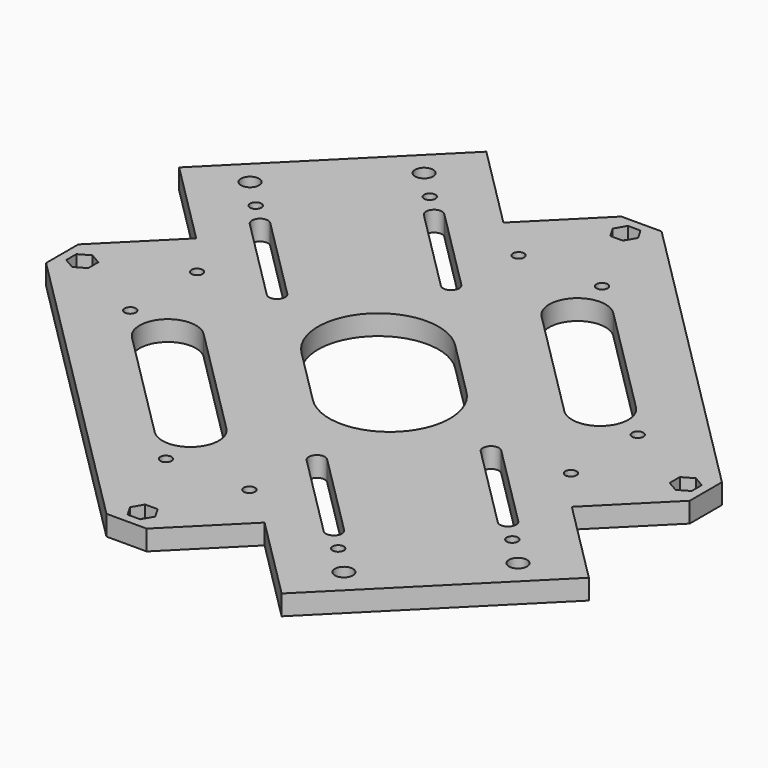
from build123d import *

# Parameters (mm, degrees)
EXTRUDE002_DEPTH           = 4
EXTRUDE002_PLACEMENT_ANGLE = 180
EXTRUDE003_DEPTH           = 4
EXTRUDE003_PLACEMENT_ANGLE = 90
EXTRUDE004_DEPTH           = 4
EXTRUDE004_PLACEMENT_ANGLE = -90
EXTRUDE001_DEPTH           = 4
SKETCH_R                   = 1.75
SKETCH_R_2                 = 1.4
SKETCH_R_3                 = 2.25
EXTRUDE_DEPTH              = 5


with BuildPart() as extrude002:
    # Sketch001 → Extrude002 (new body)
    with BuildSketch(Plane.XY):
        Polygon((1.575, -7.72798), (3.15, -5), (1.575, -2.27202), (-1.575, -2.27202), (-3.15, -5), (-1.575, -7.72798), align=None)
    extrude(amount=EXTRUDE002_DEPTH)


with BuildPart() as extrude002_1:
    # Extrude002 placement: moved
    add(extrude002.part.moved(Location((0, -80, 2))).rotate(Axis((0, -80, 2), (0, 0, 1)), EXTRUDE002_PLACEMENT_ANGLE))


with BuildPart() as extrude003:
    # Sketch001 → Extrude003 (new body)
    with BuildSketch(Plane.XY):
        Polygon((1.575, -7.72798), (3.15, -5), (1.575, -2.27202), (-1.575, -2.27202), (-3.15, -5), (-1.575, -7.72798), align=None)
    extrude(amount=EXTRUDE003_DEPTH)


with BuildPart() as extrude003_1:
    # Extrude003 placement: moved
    add(extrude003.part.moved(Location((-80, 0, 2))).rotate(Axis((-80, 0, 2), (0, 0, 1)), EXTRUDE003_PLACEMENT_ANGLE))


with BuildPart() as extrude004:
    # Sketch001 → Extrude004 (new body)
    with BuildSketch(Plane.XY):
        Polygon((1.575, -7.72798), (3.15, -5), (1.575, -2.27202), (-1.575, -2.27202), (-3.15, -5), (-1.575, -7.72798), align=None)
    extrude(amount=EXTRUDE004_DEPTH)


with BuildPart() as extrude004_1:
    # Extrude004 placement: moved
    add(extrude004.part.moved(Location((80, 0, 2))).rotate(Axis((80, 0, 2), (0, 0, 1)), EXTRUDE004_PLACEMENT_ANGLE))


with BuildPart() as fusionhexnuts:
    # Sketch001 → Extrude001 (new body)
    with BuildSketch(Plane.XY):
        Polygon((1.575, -7.72798), (3.15, -5), (1.575, -2.27202), (-1.575, -2.27202), (-3.15, -5), (-1.575, -7.72798), align=None)
    extrude(amount=EXTRUDE001_DEPTH)


with BuildPart() as fusionhexnuts_1:
    # Extrude001 placement: moved
    add(fusionhexnuts.part.moved(Location((0, 80, 2))))

    # Fusion: union Extrude002, Extrude003, Extrude004
    add(extrude002_1.part)
    add(extrude003_1.part)
    add(extrude004_1.part)


with BuildPart() as cut:
    # Sketch → Extrude (new body)
    with BuildSketch(Plane.XY):
        Polygon((-5, 80), (5, 80), (80, 5), (80, -5), (63.713203, -21.286797), (84.926407, -42.5), (42.5, -84.926407), (21.286797, -63.713203), (5, -80), (-5, -80), (-80, -5), (-80, 5), (-63.713203, 21.286797), (-84.926407, 42.5), (-42.5, 84.926407), (-21.286797, 63.713203), align=None)
        with Locations((0, 75)):
            Circle(SKETCH_R, mode=Mode.SUBTRACT)
        with Locations((-75, 0)):
            Circle(SKETCH_R, mode=Mode.SUBTRACT)
        with Locations((75, 0)):
            Circle(SKETCH_R, mode=Mode.SUBTRACT)
        with Locations((0, -75)):
            Circle(SKETCH_R, mode=Mode.SUBTRACT)
        with Locations((-54.776107, 10.375)):
            Circle(SKETCH_R_2, mode=Mode.SUBTRACT)
        with Locations((-54.776107, -10.375)):
            Circle(SKETCH_R_2, mode=Mode.SUBTRACT)
        with Locations((-10.375, 54.776107)):
            Circle(SKETCH_R_2, mode=Mode.SUBTRACT)
        with Locations((10.375, 54.776107)):
            Circle(SKETCH_R_2, mode=Mode.SUBTRACT)
        with Locations((54.776107, 10.375)):
            Circle(SKETCH_R_2, mode=Mode.SUBTRACT)
        with Locations((54.776107, -10.375)):
            Circle(SKETCH_R_2, mode=Mode.SUBTRACT)
        with Locations((-10.375, -54.776107)):
            Circle(SKETCH_R_2, mode=Mode.SUBTRACT)
        with Locations((10.375, -54.776107)):
            Circle(SKETCH_R_2, mode=Mode.SUBTRACT)
        with Locations((39.244426, -63.286057)):
            Circle(SKETCH_R_2, mode=Mode.SUBTRACT)
        with Locations((63.286057, -39.244426)):
            Circle(SKETCH_R_2, mode=Mode.SUBTRACT)
        with Locations((-63.286057, 39.244426)):
            Circle(SKETCH_R_2, mode=Mode.SUBTRACT)
        with Locations((-39.244426, 63.286057)):
            Circle(SKETCH_R_2, mode=Mode.SUBTRACT)
        with Locations((-70.357125, 46.315494)):
            Circle(SKETCH_R_3, mode=Mode.SUBTRACT)
        with Locations((-46.315494, 70.357125)):
            Circle(SKETCH_R_3, mode=Mode.SUBTRACT)
        with Locations((46.315494, -70.357125)):
            Circle(SKETCH_R_3, mode=Mode.SUBTRACT)
        with Locations((70.357125, -46.315494)):
            Circle(SKETCH_R_3, mode=Mode.SUBTRACT)
        with BuildLine():
            ThreePointArc((-37.476659, -9.192388), (-47.376154, -9.192388), (-47.376154, -19.091883))
            Line((-47.376154, -19.091883), (-19.091883, -47.376154))
            ThreePointArc((-19.091883, -47.376154), (-9.192388, -47.376154), (-9.192388, -37.476659))
            Line((-37.476659, -9.192388), (-9.192388, -37.476659))
        make_face(mode=Mode.SUBTRACT)
        with BuildLine():
            ThreePointArc((19.091883, 47.376154), (9.192388, 47.376154), (9.192388, 37.476659))
            Line((9.192388, 37.476659), (37.476659, 9.192388))
            ThreePointArc((37.476659, 9.192388), (47.376154, 9.192388), (47.376154, 19.091883))
            Line((19.091883, 47.376154), (47.376154, 19.091883))
        make_face(mode=Mode.SUBTRACT)
        with BuildLine():
            ThreePointArc((-56.568542, 35.355339), (-59.39697, 35.355339), (-59.39697, 32.526912))
            Line((-59.39697, 32.526912), (-38.183766, 11.313708))
            ThreePointArc((-38.183766, 11.313708), (-35.355339, 11.313708), (-35.355339, 14.142136))
            Line((-56.568542, 35.355339), (-35.355339, 14.142136))
        make_face(mode=Mode.SUBTRACT)
        with BuildLine():
            ThreePointArc((-32.526912, 59.39697), (-35.355339, 59.39697), (-35.355339, 56.568542))
            Line((-35.355339, 56.568542), (-14.142136, 35.355339))
            ThreePointArc((-14.142136, 35.355339), (-11.313708, 35.355339), (-11.313708, 38.183766))
            Line((-32.526912, 59.39697), (-11.313708, 38.183766))
        make_face(mode=Mode.SUBTRACT)
        with BuildLine():
            ThreePointArc((14.142136, -35.355339), (11.313708, -35.355339), (11.313708, -38.183766))
            Line((11.313708, -38.183766), (32.526912, -59.39697))
            ThreePointArc((32.526912, -59.39697), (35.355339, -59.39697), (35.355339, -56.568542))
            Line((14.142136, -35.355339), (35.355339, -56.568542))
        make_face(mode=Mode.SUBTRACT)
        with BuildLine():
            ThreePointArc((56.568542, -35.355339), (59.39697, -35.355339), (59.39697, -32.526912))
            Line((59.39697, -32.526912), (38.183766, -11.313708))
            ThreePointArc((38.183766, -11.313708), (35.355339, -11.313708), (35.355339, -14.142136))
            Line((56.568542, -35.355339), (35.355339, -14.142136))
        make_face(mode=Mode.SUBTRACT)
        with BuildLine():
            ThreePointArc((3.535534, 17.67767), (-17.67767, 17.67767), (-17.67767, -3.535534))
            Line((-17.67767, -3.535534), (-3.535534, -17.67767))
            ThreePointArc((-3.535534, -17.67767), (17.67767, -17.67767), (17.67767, 3.535534))
            Line((3.535534, 17.67767), (17.67767, 3.535534))
        make_face(mode=Mode.SUBTRACT)
    extrude(amount=EXTRUDE_DEPTH)

    # Cut: cut FusionHexNuts
    add(fusionhexnuts_1.part, mode=Mode.SUBTRACT)


solid = cut.part
